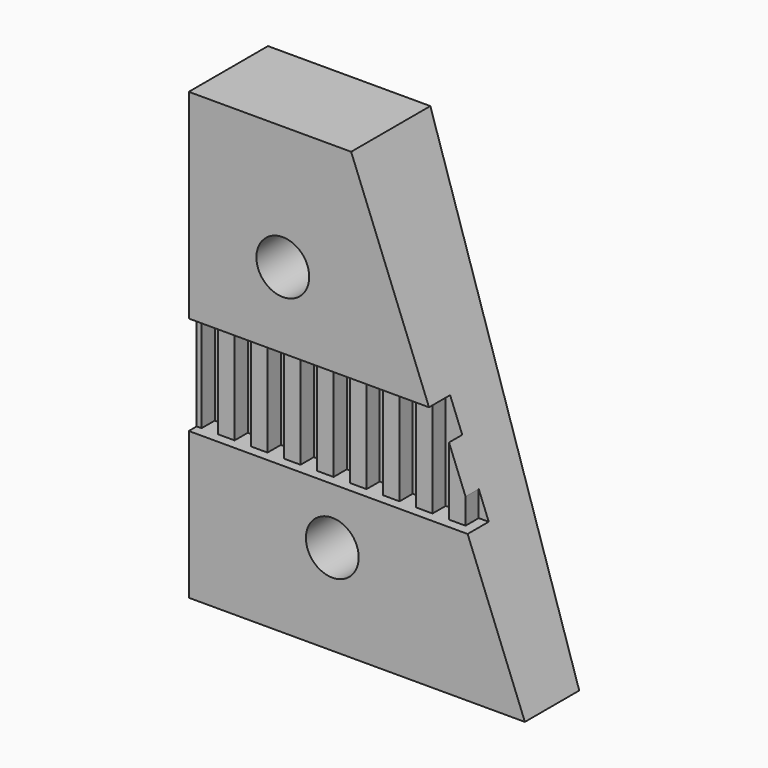
from build123d import *

# Parameters (mm, degrees)
EXTRUDE053_DEPTH               = 6
EXTRUDE053_PLACEMENT_ANGLE     = 180
CYLINDER127_R                  = 1.6
CYLINDER127_DEPTH              = 40
CYLINDER124_R                  = 1.6
CYLINDER124_DEPTH              = 40
EXTRUDE050_DEPTH               = 10
EXTRUDE049_DEPTH               = 21
PART_MIRRORING_PLACEMENT_ANGLE = 180


with BuildPart() as extrude053:
    # Sketch043 → Extrude053 (new body)
    with BuildSketch(Plane.XY):
        Polygon((-6.704267, 10), (14.295733, 10), (14.295733, 8.4), (13.295733, 8.4), (13.295733, 9.4), (12.295733, 9.4), (12.295733, 8.4), (11.295733, 8.4), (11.295733, 9.4), (10.295733, 9.4), (10.295733, 8.4), (9.295733, 8.4), (9.295733, 9.4), (8.295733, 9.4), (8.295733, 8.4), (7.295733, 8.4), (7.295733, 9.4), (6.295733, 9.4), (6.295733, 8.4), (5.295733, 8.4), (5.295733, 9.4), (4.295733, 9.4), (4.295733, 8.4), (3.295733, 8.4), (3.295733, 9.4), (2.295733, 9.4), (2.295733, 8.4), (1.295733, 8.4), (1.295733, 9.4), (0.295733, 9.4), (0.295733, 8.4), (-0.704267, 8.4), (-0.704267, 9.4), (-1.704267, 9.4), (-1.704267, 8.4), (-2.704267, 8.4), (-2.704267, 9.4), (-3.704267, 9.4), (-3.704267, 8.4), (-4.704267, 8.4), (-4.704267, 9.4), (-5.704267, 9.4), (-5.704267, 8.4), (-6.704267, 8.4), align=None)
    extrude(amount=EXTRUDE053_DEPTH)


with BuildPart() as extrude053_1:
    # Extrude053 placement: moved
    add(extrude053.part.moved(Location((9, 18.5, 43.9))).rotate(Axis((9, 18.5, 43.9), (0, 0, 1)), EXTRUDE053_PLACEMENT_ANGLE))


with BuildPart() as cylinder127:
    # Cylinder127 → Cylinder127 (new body)
    with BuildSketch(Plane(origin=(5.3, 42, 40.5), x_dir=(0, 0, -1), z_dir=(0, -1, 0))):
        Circle(CYLINDER127_R)
    extrude(amount=CYLINDER127_DEPTH)


with BuildPart() as cylinder124:
    # Cylinder124 → Cylinder124 (new body)
    with BuildSketch(Plane(origin=(8.3, 42, 54.5), x_dir=(0, 0, -1), z_dir=(0, -1, 0))):
        Circle(CYLINDER124_R)
    extrude(amount=CYLINDER124_DEPTH)


with BuildPart() as extrude050:
    # Sketch040 → Extrude050 (new body)
    with BuildSketch(Plane.XZ):
        Polygon((-8.16038, 62.64716), (-8.16038, 30.419451), (4.410427, 62.64716), align=None)
    extrude(amount=-EXTRUDE050_DEPTH)


with BuildPart() as extrude050_1:
    # Extrude050 placement: moved
    add(extrude050.part.moved(Location((0, 8, 0))))


with BuildPart() as cut132:
    # Sketch039 → Extrude049 (new body)
    with BuildSketch(Plane.YZ):
        Polygon((8.5, 62), (8.5, 35), (12.616711, 35), (14.5, 62), align=None)
    extrude(amount=EXTRUDE049_DEPTH)


with BuildPart() as cut132_1:
    # Extrude049 placement: moved
    add(cut132.part.moved(Location((-7, 0, 0))))

    # Cut127: cut Extrude050
    add(extrude050_1.part, mode=Mode.SUBTRACT)

    # Cut130: cut Cylinder124
    add(cylinder124.part, mode=Mode.SUBTRACT)

    # Cut131: cut Cylinder127
    add(cylinder127.part, mode=Mode.SUBTRACT)

    # Cut132: cut Extrude053
    add(extrude053_1.part, mode=Mode.SUBTRACT)


with BuildPart() as part_mirroring:
    # Part__Mirroring: instance of Cut132
    add(cut132_1.part.mirror(Plane(origin=(3.813159, 4e-06, 48.5), x_dir=(1, 0, 0), z_dir=(0, 1, 0))))


with BuildPart() as part_mirroring_1:
    # Part__Mirroring placement: moved
    add(part_mirroring.part.moved(Location((237.8, 0, 0))).rotate(Axis((237.8, 0, 0), (0, 0, 1)), PART_MIRRORING_PLACEMENT_ANGLE))


solid = part_mirroring_1.part
